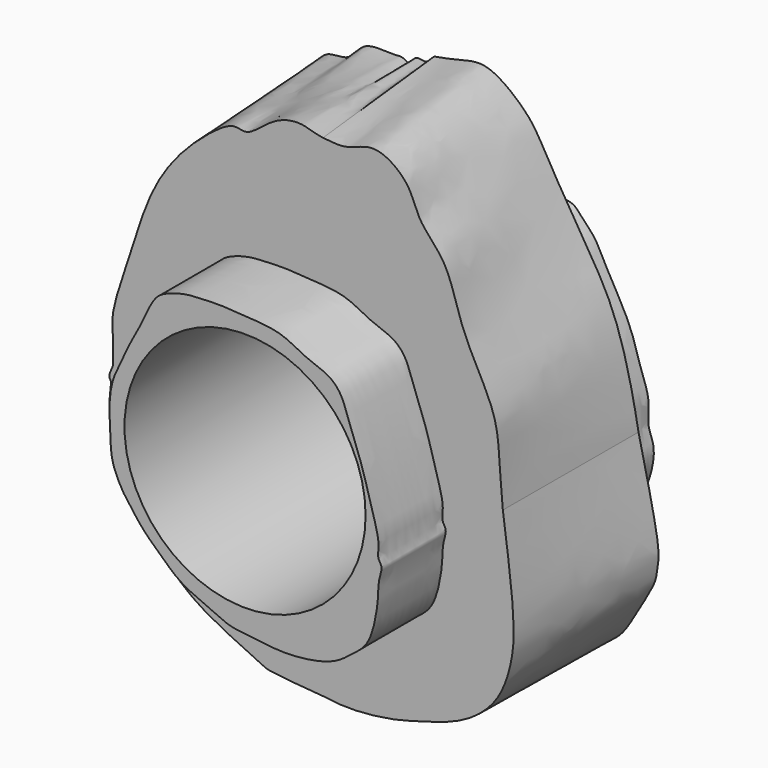
from build123d import *

# Parameters (mm, degrees)
F5_DEPTH = 10
F7_DEPTH = 10
F8_R     = 15
F9_DEPTH = 40.0010001


with BuildPart() as f3:
    # F1 (on Front) → F3 section 0
    with BuildSketch(Plane.XZ):
        with BuildLine():
            add(Edge.make_bspline(
                [(-29.8869982362, -32.4623323977), (-29.1454342104, -32.3365377305), (-27.6002525943, -32.0744219855), (-24.8820737344, -31.2401712171), (-22.2607302245, -31.5498284503), (-17.861061131, -35.1075133094), (-16.0894671653, -38.5693538783), (-11.7905885451, -45.7506756602), (-7.5774731076, -52.2886377841), (-5.4326274126, -60.1004601613), (-4.7684911725, -63.7226468733), (-4.4703083113, -65.3489306569)],
                knots=[0, 0, 0, 0, 0.0766372293, 0.1596874088, 0.2400446409, 0.3554565709, 0.4568042584, 0.5998574684, 0.7433862386, 0.8847859506, 1, 1, 1, 1], degree=3))
            add(Edge.make_bspline(
                [(-53.9952479303, -65.3489306569), (-53.9518618586, -64.2567443135), (-53.856167119, -61.847757199), (-54.7467327519, -57.0289684232), (-49.3354322834, -50.8511823523), (-51.8143096622, -49.102668942), (-49.6048191079, -47.3541485723), (-50.450205518, -44.4098484291), (-47.6953996375, -40.4292702371), (-44.6528623404, -38.0458462601), (-43.280447403, -36.110973699), (-40.1916173946, -36.5475254819), (-38.8883495333, -33.3987319671), (-34.8015832597, -34.0524331226), (-33.9062322549, -33.6521026419), (-32.6621088582, -34.7191199705), (-32.3918943522, -32.937732067), (-30.8128240347, -33.7138268018), (-30.2018378219, -32.8879199978), (-29.8869982362, -32.4623323977)],
                knots=[0, 0, 0, 0, 0.0674180688, 0.1487010526, 0.2463712417, 0.294702503, 0.3467046537, 0.4075717558, 0.486574122, 0.559634203, 0.6130755042, 0.6715613738, 0.73322352, 0.8030454427, 0.8396742729, 0.8775279227, 0.9155106073, 0.9564628385, 1, 1, 1, 1], degree=3))
            add(Edge.make_bspline(
                [(-29.8869982362, -93.4046953917), (-31.0944689913, -92.9779756868), (-33.7038479862, -92.0558221442), (-39.1470149181, -91.2843940714), (-44.5963092543, -87.4882494139), (-50.1548724589, -83.12998408), (-52.5040045658, -76.540715601), (-54.0625705638, -73.7311571639), (-53.99119323, -70.8066689048), (-53.1051589674, -68.7845657109), (-53.6750361551, -66.5849091325), (-53.9952479303, -65.3489306569)],
                knots=[0, 0, 0, 0, 0.1055295492, 0.228052388, 0.3638878237, 0.5052463887, 0.6429037426, 0.7374970797, 0.8239675762, 0.9010880658, 1, 1, 1, 1], degree=3))
            add(Edge.make_bspline(
                [(-29.8869982362, -93.4046953917), (-28.6585553666, -93.5697594481), (-25.6832375927, -93.9695485087), (-17.5786286134, -92.7766693082), (-10.7251932926, -90.3498725118), (-6.6702216862, -88.9275194321), (-4.5847485366, -84.8069096912), (-2.1649098776, -81.1925014104), (-2.1673667973, -79.1138577517), (-1.6037933524, -77.7378061199), (-3.2264904145, -70.7246238742), (-4.4703083113, -65.3489306569)],
                knots=[0, 0, 0, 0, 0.1016984551, 0.2463160709, 0.3838798013, 0.4843644926, 0.5910248697, 0.6964382862, 0.7640983207, 0.8191783682, 1, 1, 1, 1], degree=3))
        make_face()
    # F2 (on offset) → F3 section 1
    with BuildSketch(Plane.XZ.offset(20)):
        with BuildLine():
            add(Edge.make_bspline(
                [(-27.7264590907, -32.5419914959), (-26.6927545425, -32.6649523745), (-24.5643328545, -32.9181316812), (-21.2764676065, -30.8204734401), (-16.7342369436, -34.0117728813), (-16.0430285668, -37.8315052643), (-11.9721400593, -41.1727784056), (-10.677953466, -48.2737066707), (-6.0648776252, -55.361955179), (-5.8082127885, -60.7905654399), (-5.5026743421, -64.2962357289), (-5.3506519246, -66.0405022142)],
                knots=[0, 0, 0, 0, 0.0875288707, 0.1802239789, 0.288426451, 0.3849650911, 0.4939623227, 0.6273988759, 0.7714184201, 0.8862679156, 1, 1, 1, 1], degree=3))
            add(Edge.make_bspline(
                [(-53.8739438701, -66.0405022142), (-53.878609739, -65.1870000997), (-53.8865619719, -63.7323412645), (-53.8351779623, -62.5226029126), (-54.153441433, -60.0689258762), (-51.8569139565, -53.7392322555), (-49.5543425455, -45.7495340841), (-45.7532145552, -39.9026743034), (-40.8777568657, -35.7119160074), (-38.6769952498, -34.6304493588), (-37.1313391848, -35.3884221476), (-34.8161448017, -33.2657401865), (-32.640061129, -32.0145879715), (-30.352361243, -31.7863467416), (-28.6892395961, -32.3994177035), (-28.0130652978, -32.4995492843), (-27.7264590907, -32.5419914959)],
                knots=[0, 0, 0, 0, 0.0622437684, 0.1060846201, 0.1666595177, 0.2719875867, 0.3913914951, 0.5003587204, 0.6029261731, 0.6629438963, 0.7106743865, 0.7799411928, 0.8461129078, 0.9068245034, 0.9605062249, 1, 1, 1, 1], degree=3))
            add(Edge.make_bspline(
                [(-53.8739438701, -66.0405022142), (-54.1179957762, -66.5859640449), (-54.4906732444, -67.4189070744), (-53.871296787, -67.7491616089), (-55.0209637339, -71.797814315), (-51.5887485756, -79.7081818655), (-46.803668893, -86.0582965892), (-42.3808305131, -89.5136019514), (-35.3029549467, -92.694008863), (-34.4467935552, -93.1589739829), (-30.5352252879, -93.4719223872), (-27.7264590907, -93.6966401575)],
                knots=[0, 0, 0, 0, 0.0654509445, 0.0999463298, 0.201880735, 0.3649662362, 0.5192002228, 0.6548952004, 0.8020582711, 0.8578646724, 1, 1, 1, 1], degree=3))
            add(Edge.make_bspline(
                [(-27.7264590907, -93.6966401575), (-26.7893040391, -93.8256094389), (-24.6055792178, -94.126128996), (-19.0448645709, -93.5803967036), (-15.1544717915, -92.3560066008), (-10.4514821502, -91.0849804807), (-5.9828525048, -87.6947396456), (-4.2784170151, -82.8771537909), (-3.8660162271, -79.00339624), (-4.3169308983, -73.5932049857), (-4.9847006708, -68.7142613604), (-5.3506519246, -66.0405022142)],
                knots=[0, 0, 0, 0, 0.0883890517, 0.2059609728, 0.3086732265, 0.418227034, 0.5353800237, 0.646402051, 0.7444161766, 0.859934929, 1, 1, 1, 1], degree=3))
        make_face()
    loft()

    # F4 (on Front) → F5 (join)
    with BuildSketch(Plane.XZ):
        with BuildLine():
            add(Edge.make_bspline(
                [(-29.9842024493, -48.7184589025), (-30.7254417992, -48.646203242), (-32.4286343117, -48.3006980151), (-33.5356694796, -48.9137852411), (-36.5081701837, -48.3783781938), (-38.7656835043, -49.8158461171), (-41.3523822873, -51.2013188797), (-43.1809087059, -53.6940258037), (-43.7266615491, -58.9007900123), (-45.3029697513, -60.8955296665), (-46.1393359639, -65.0900595483), (-45.8438276319, -66.1876930471), (-45.9179674669, -69.1860226743), (-45.9679749277, -71.526375284), (-44.8158335134, -73.8060644488), (-43.6084381457, -75.4143545638), (-41.9558191831, -76.7847207574), (-40.5864539733, -78.4341983794), (-38.3845613295, -79.2864357781), (-36.7888539306, -80.9805238739), (-34.8903086641, -82.0178022316), (-32.5350159094, -82.8798853206), (-29.9699397322, -83.7451279248), (-27.8445786967, -83.4487015058), (-24.5172375279, -83.8588609235), (-22.0956181522, -83.4904231371), (-20.6865132587, -83.6670125137), (-17.1309069357, -83.0255974915), (-13.828793109, -80.7506745544), (-11.6377134683, -78.4704806236), (-10.5548343709, -74.97692198), (-10.5018300452, -72.6043810584), (-11.4860204811, -70.8629346857), (-10.9192066866, -68.1430469881), (-12.2160588095, -65.044824208), (-13.077838029, -61.8316862321), (-14.2810786104, -59.0306423188), (-16.5678738451, -55.206498712), (-17.8194298205, -52.360770905), (-19.6153959285, -50.7848849207), (-20.5882129775, -49.3135343708), (-23.3490527717, -49.5526223218), (-24.1059093812, -47.9687768923), (-26.1272133088, -48.5932731147), (-28.4041006258, -48.7180898059), (-29.3755419828, -48.7777908362), (-29.9842024493, -48.7184589025)],
                knots=[0, 0, 0, 0, 0.0220058584, 0.0379153628, 0.0615743781, 0.0848786449, 0.1088288844, 0.1336617977, 0.1653941652, 0.1891348935, 0.2173487297, 0.2331368023, 0.257122163, 0.2794498369, 0.3016791436, 0.3219397903, 0.342650335, 0.3633609038, 0.3849645089, 0.406501886, 0.4272868795, 0.4500214102, 0.4730831373, 0.4939484218, 0.5201179449, 0.5420953904, 0.5588248406, 0.5853122681, 0.6140189845, 0.6393012947, 0.6661862423, 0.6877838612, 0.7071181322, 0.7301105491, 0.7561714917, 0.782032072, 0.8070677138, 0.83714475, 0.8624494887, 0.8839504801, 0.9021319935, 0.9242894114, 0.9409277587, 0.9602787139, 0.9819301336, 1, 1, 1, 1], degree=3))
        make_face()
    extrude(amount=-F5_DEPTH)

    # F6 (on offset) → F7 (join)
    with BuildSketch(Plane.XZ.offset(20)):
        with BuildLine():
            add(Edge.make_bspline(
                [(-28.030972528, -48.6378008289), (-26.9677488538, -48.7174669548), (-24.7000035958, -48.9190418787), (-21.8351351719, -50.7549380595), (-19.0057363303, -51.4900401711), (-17.1677101368, -53.3959597941), (-16.1219780311, -57.2020497695), (-14.7944898302, -60.2088802285), (-13.8051664389, -64.2290050469), (-12.5754061512, -67.9053247738), (-13.0435626444, -69.6996645759), (-12.2230026267, -70.4741935563), (-12.8975177677, -72.1710593324), (-12.790910983, -74.2667877217), (-13.6523562713, -79.4464716571), (-16.1151079262, -81.1898007259), (-18.6008396396, -83.3428255078), (-24.7644755697, -84.0731508163), (-28.1509356864, -83.3860792874), (-31.2757822453, -83.2843409202), (-33.5687302184, -82.0553045162), (-37.371332907, -80.5680907776), (-39.5081745923, -78.5175407755), (-42.0231618823, -76.2895191944), (-43.7682265866, -73.9271086171), (-44.8016202457, -72.5503057808), (-45.8643708398, -70.3229359676), (-46.1669084572, -68.449191605), (-46.1730253085, -66.2233835723), (-46.3990690027, -63.8532497522), (-46.0041003101, -60.8009922356), (-44.8247674816, -58.6749101038), (-43.8506124137, -56.285033073), (-42.7399154431, -54.493676553), (-42.0980299568, -52.9801058083), (-40.9459258478, -50.6189312745), (-39.8786333225, -49.4002326481), (-37.0622885237, -48.5346745769), (-35.459490967, -48.4638854863), (-32.834517708, -48.3199928566), (-30.7262709818, -48.4603590557), (-28.9960019981, -48.5654922816), (-28.030972528, -48.6378008289)],
                knots=[0, 0, 0, 0, 0.0275344965, 0.0554734206, 0.0810069054, 0.1049454258, 0.1347351565, 0.1625846134, 0.1937778472, 0.2237254583, 0.2430624049, 0.2573659241, 0.2763026524, 0.2991278175, 0.333095413, 0.3588084425, 0.3859684502, 0.4232065338, 0.4521041092, 0.477986791, 0.5025964735, 0.5329263181, 0.5592753351, 0.5871795723, 0.6129684031, 0.633051774, 0.6564702911, 0.6775434766, 0.6998814952, 0.7235724049, 0.7499037179, 0.7737233823, 0.7981129806, 0.8198880877, 0.8396439043, 0.8638378086, 0.8833803172, 0.9086237559, 0.9285453543, 0.9526704099, 0.9750084566, 1, 1, 1, 1], degree=3))
        make_face()
    extrude(amount=F7_DEPTH)

    # F8 (on face) → F9 (cut, through all)
    with BuildSketch(Plane.XZ.offset(30)):
        with Locations((-29.425477609, -65.5186250806)):
            Circle(F8_R)
    extrude(amount=-F9_DEPTH, mode=Mode.SUBTRACT)


solid = f3.part
